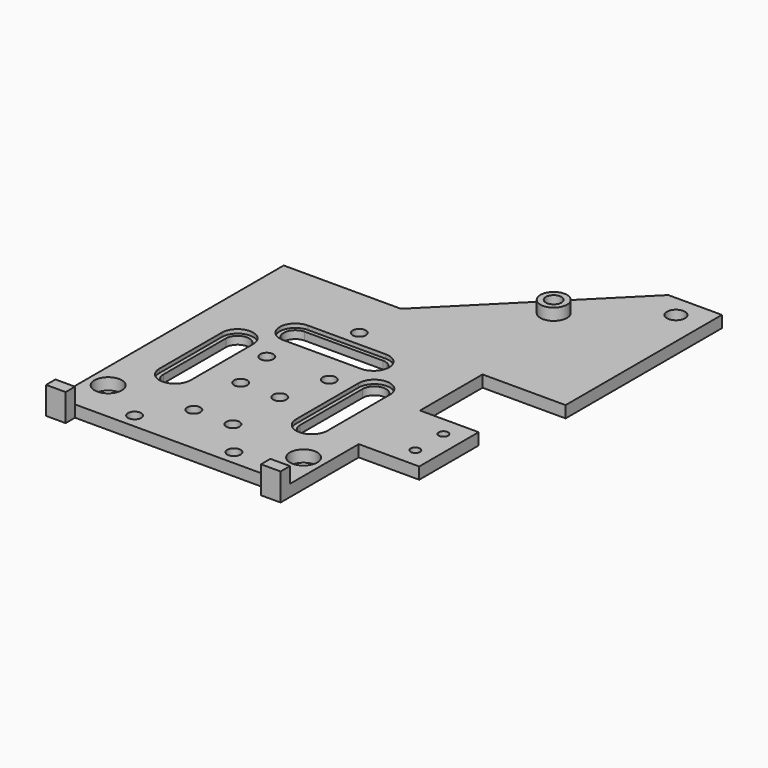
from build123d import *

# Parameters (mm, degrees)
SKETCH_R        = 2.3
SKETCH_R_2      = 1.7
SKETCH_R_3      = 1.2
PAD_DEPTH       = 3
SKETCH004_R     = 2.345013
SKETCH004_R_2   = 1.7
POCKET004_DEPTH = 5
SKETCH003_R     = 3.5
SKETCH003_R_2   = 2
POCKET005_DEPTH = 5
SKETCH005_R     = 3.4
PAD001_DEPTH    = 3
SKETCH006_R     = 2
POCKET_DEPTH    = 8
SKETCH009_R     = 2
POCKET007_DEPTH = 3
POCKET008_DEPTH = 1
SKETCH011_W     = 5
SKETCH011_H     = 3
PAD003_DEPTH    = 3
SKETCH012_W     = 5
SKETCH012_H     = 3
PAD004_DEPTH    = 4


with BuildPart() as part:
    # Sketch → Pad (new body)
    with BuildSketch(Plane.XY):
        Polygon((30, -63), (-30, -63), (-30, 10), (0, 10), (38, 48), (51.73, 48), (51.73, -2), (30.48, -2), (30.48, -22), (45.48, -22), (45.48, -41), (30, -41), align=None)
        with Locations((44.585025, 42.218019)):
            Circle(SKETCH_R, mode=Mode.SUBTRACT)
        with Locations((-12.71, -59.3)):
            Circle(SKETCH_R_2, mode=Mode.SUBTRACT)
        with Locations((12.71, -59.3)):
            Circle(SKETCH_R_2, mode=Mode.SUBTRACT)
        with Locations((0, -3.331213)):
            Circle(SKETCH_R_2, mode=Mode.SUBTRACT)
        with Locations((-8, -22.917882)):
            Circle(SKETCH_R_2, mode=Mode.SUBTRACT)
        with Locations((8, -22.917882)):
            Circle(SKETCH_R_2, mode=Mode.SUBTRACT)
        with Locations((40.48, -27)):
            Circle(SKETCH_R_3, mode=Mode.SUBTRACT)
        with Locations((40.48, -36)):
            Circle(SKETCH_R_3, mode=Mode.SUBTRACT)
        with Locations((-5, -35)):
            Circle(SKETCH_R_2, mode=Mode.SUBTRACT)
        with Locations((5, -35)):
            Circle(SKETCH_R_2, mode=Mode.SUBTRACT)
        with Locations((-5, -50)):
            Circle(SKETCH_R_2, mode=Mode.SUBTRACT)
        with Locations((5, -50)):
            Circle(SKETCH_R_2, mode=Mode.SUBTRACT)
        with BuildLine():
            ThreePointArc((-20.5, -40.385975), (-17.5, -43.385975), (-14.5, -40.385975))
            Line((-14.5, -40.385975), (-14.5, -20.385975))
            ThreePointArc((-14.5, -20.385975), (-17.5, -17.385975), (-20.5, -20.385975))
            Line((-20.5, -40.385975), (-20.5, -20.385975))
        make_face(mode=Mode.SUBTRACT)
        with BuildLine():
            ThreePointArc((14.5, -40.385975), (17.5, -43.385975), (20.5, -40.385975))
            Line((20.5, -40.385975), (20.5, -20.385975))
            ThreePointArc((20.5, -20.385975), (17.5, -17.385975), (14.5, -20.385975))
            Line((14.5, -40.385975), (14.5, -20.385975))
        make_face(mode=Mode.SUBTRACT)
        with BuildLine():
            ThreePointArc((-10, -8.267137), (-13, -11.267137), (-10, -14.267137))
            Line((-10, -14.267137), (10, -14.267137))
            ThreePointArc((10, -14.267137), (13, -11.267137), (10, -8.267137))
            Line((-10, -8.267137), (10, -8.267137))
        make_face(mode=Mode.SUBTRACT)
    extrude(amount=PAD_DEPTH)

    # Sketch004 → Pocket004 (cut)
    with BuildSketch(Plane.XY):
        with Locations((-5, -35)):
            Circle(SKETCH004_R)
        with Locations((-5, -35)):
            Circle(SKETCH004_R_2, mode=Mode.SUBTRACT)
        with Locations((5, -35)):
            Circle(SKETCH004_R_2)
        with Locations((5, -50)):
            Circle(SKETCH004_R_2)
        with Locations((-5, -50)):
            Circle(SKETCH004_R_2)
    extrude(amount=-POCKET004_DEPTH, mode=Mode.SUBTRACT)

    # Sketch003 → Pocket005 (cut)
    with BuildSketch(Plane.XY.offset(3)):
        with Locations((-25, -52.39)):
            Circle(SKETCH003_R)
        with Locations((25, -52.39)):
            Circle(SKETCH003_R)
        with Locations((25, 27.61)):
            Circle(SKETCH003_R_2)
    extrude(amount=-POCKET005_DEPTH, mode=Mode.SUBTRACT)

    # Sketch005 (on Face5 of Pocket005) → Pad001 (join)
    with BuildSketch(Plane.XY.offset(3)):
        with Locations((25, 27.61)):
            Circle(SKETCH005_R)
    extrude(amount=PAD001_DEPTH)

    # Sketch006 (on Face45 of Pad001) → Pocket (cut)
    with BuildSketch(Plane.XY.offset(6)):
        with Locations((25, 27.61)):
            Circle(SKETCH006_R)
    extrude(amount=-POCKET_DEPTH, mode=Mode.SUBTRACT)

    # Sketch009 → Pocket007 (cut)
    with BuildSketch(Plane.XY.offset(4.5)):
        with Locations((25, 27.61)):
            Circle(SKETCH009_R)
    extrude(amount=-POCKET007_DEPTH, mode=Mode.SUBTRACT)

    # Sketch010 (on Face5 of Pocket007) → Pocket008 (cut)
    with BuildSketch(Plane.XY.offset(3)):
        with BuildLine():
            ThreePointArc((-13.5, -20.385975), (-17.5, -16.385975), (-21.5, -20.385975))
            Line((-21.5, -20.385975), (-21.5, -40.385975))
            ThreePointArc((-21.5, -40.385975), (-17.5, -44.385975), (-13.5, -40.385975))
            Line((-13.5, -20.385975), (-13.5, -40.385975))
        make_face()
        with BuildLine():
            ThreePointArc((-10, -7.267137), (-14, -11.267137), (-10, -15.267137))
            Line((-10, -15.267137), (10, -15.267137))
            ThreePointArc((10, -15.267137), (14, -11.267137), (10, -7.267137))
            Line((-10, -7.267137), (10, -7.267137))
        make_face()
        with BuildLine():
            ThreePointArc((21.5, -20.385975), (17.5, -16.385975), (13.5, -20.385975))
            Line((13.5, -20.385975), (13.5, -40.385975))
            ThreePointArc((13.5, -40.385975), (17.5, -44.385975), (21.5, -40.385975))
            Line((21.5, -20.385975), (21.5, -40.385975))
        make_face()
    extrude(amount=-POCKET008_DEPTH, mode=Mode.SUBTRACT)

    # Sketch011 (on Face13 of Pocket008) → Pad003 (join)
    with BuildSketch(Plane.XZ.offset(63)):
        with Locations((-27.5, 1.5)):
            Rectangle(SKETCH011_W, SKETCH011_H)
        with Locations((27.5, 1.5)):
            Rectangle(SKETCH011_W, SKETCH011_H)
    extrude(amount=PAD003_DEPTH)

    # Sketch012 (on Face45 of Pad003) → Pad004 (join)
    with BuildSketch(Plane.XY.offset(3)):
        with Locations((-27.5, -64.5)):
            Rectangle(SKETCH012_W, SKETCH012_H)
        with Locations((27.5, -64.5)):
            Rectangle(SKETCH012_W, SKETCH012_H)
    extrude(amount=PAD004_DEPTH)


solid = part.part
